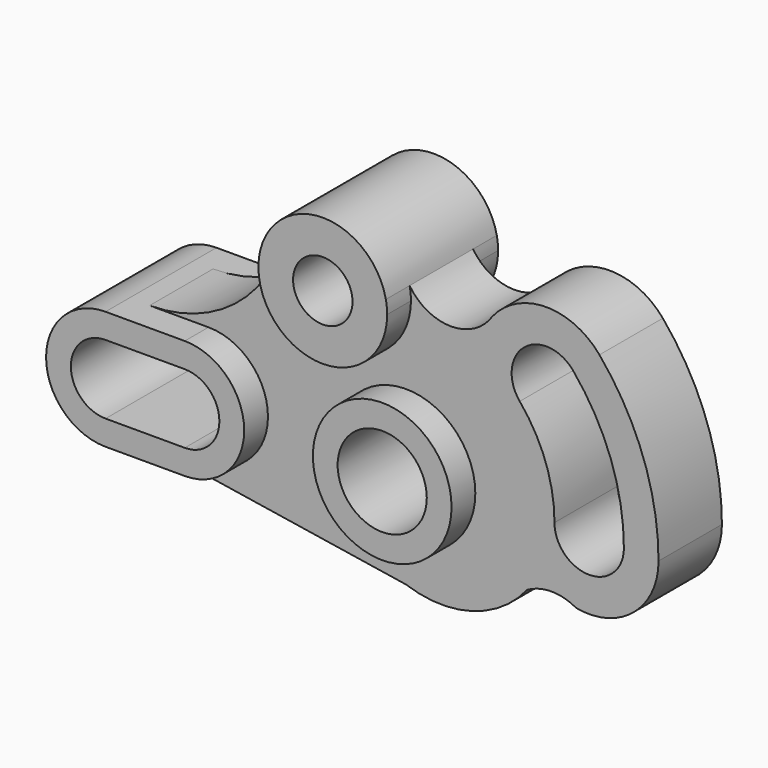
from build123d import *

# Parameters (mm, degrees)
F0_R     = 22.225
F1_DEPTH = 12.7
F0_R_2   = 9.525
F0_R_3   = 14.2875
F2_DEPTH = 22.225


with BuildPart() as f1:
    # F0 (on Front) → F1 (new body, symmetric)
    with BuildSketch(Plane.XZ):
        with BuildLine():
            Line((-63.2968, -19.05), (-88.6968, -19.05))
            Line((-88.6968, -19.05), (0, -32.950314))
            ThreePointArc((0, -32.950314), (21.194636, -33.574712), (38.844294, -21.823456))
            ThreePointArc((38.844294, -21.823456), (46.681728, -19.753899), (54.519161, -21.823456))
            ThreePointArc((54.519161, -21.823456), (72.875424, -17.137983), (80.9498, 0))
            ThreePointArc((80.9498, 0), (76.06793, 27.686462), (62.011144, 52.033528))
            ThreePointArc((62.011144, 52.033528), (44.80973, 59.971876), (27.736253, 51.761978))
            ThreePointArc((27.736253, 51.761978), (14.452427, 44.57925), (1.168601, 51.761978))
            ThreePointArc((1.168601, 51.761978), (1.482508, 49.704066), (1.5875, 47.625))
            ThreePointArc((1.5875, 47.625), (-21.585988, 27.143907), (-39.064243, 52.658537))
            ThreePointArc((-39.064243, 52.658537), (-54.841462, 28.445004), (-82.171843, 19.05))
            Line((-82.171843, 19.05), (-63.2968, 19.05))
            ThreePointArc((-63.2968, 19.05), (-44.2468, 0), (-63.2968, -19.05))
        make_face()
        Circle(F0_R, mode=Mode.SUBTRACT)
        with BuildLine():
            ThreePointArc((47.5996, 0), (44.728993, 16.280022), (36.463409, 30.596433))
            ThreePointArc((36.463409, 30.596433), (37.834666, 46.269971), (53.508204, 44.898715))
            ThreePointArc((53.508204, 44.898715), (65.63753, 23.890107), (69.85, 0))
            ThreePointArc((69.85, 0), (58.7248, -11.1252), (47.5996, 0))
        make_face(mode=Mode.SUBTRACT)
    extrude(amount=F1_DEPTH, both=True)

    # F0 (on Front) → F2 (join, symmetric)
    with BuildSketch(Plane.XZ):
        with BuildLine():
            Line((-82.171843, 19.05), (-88.6968, 19.05))
            ThreePointArc((-88.6968, 19.05), (-107.7468, 0), (-88.6968, -19.05))
            Line((-88.6968, -19.05), (-63.2968, -19.05))
            ThreePointArc((-63.2968, -19.05), (-44.2468, 0), (-63.2968, 19.05))
            Line((-63.2968, 19.05), (-82.171843, 19.05))
        make_face()
        with BuildLine():
            ThreePointArc((-88.6968, -11.0998), (-99.7966, 0), (-88.6968, 11.0998))
            Line((-88.6968, 11.0998), (-63.2968, 11.0998))
            ThreePointArc((-63.2968, 11.0998), (-52.197, 0), (-63.2968, -11.0998))
            Line((-63.2968, -11.0998), (-88.6968, -11.0998))
        make_face(mode=Mode.SUBTRACT)
        with BuildLine():
            ThreePointArc((1.168601, 51.761978), (-18.590223, 68.257378), (-39.064243, 52.658537))
            ThreePointArc((-39.064243, 52.658537), (-21.585988, 27.143907), (1.5875, 47.625))
            ThreePointArc((1.5875, 47.625), (1.482508, 49.704066), (1.168601, 51.761978))
        make_face()
        with Locations((-19.05, 47.625)):
            Circle(F0_R_2, mode=Mode.SUBTRACT)
        Circle(F0_R)
        Circle(F0_R_3, mode=Mode.SUBTRACT)
    extrude(amount=F2_DEPTH, both=True)


solid = f1.part
